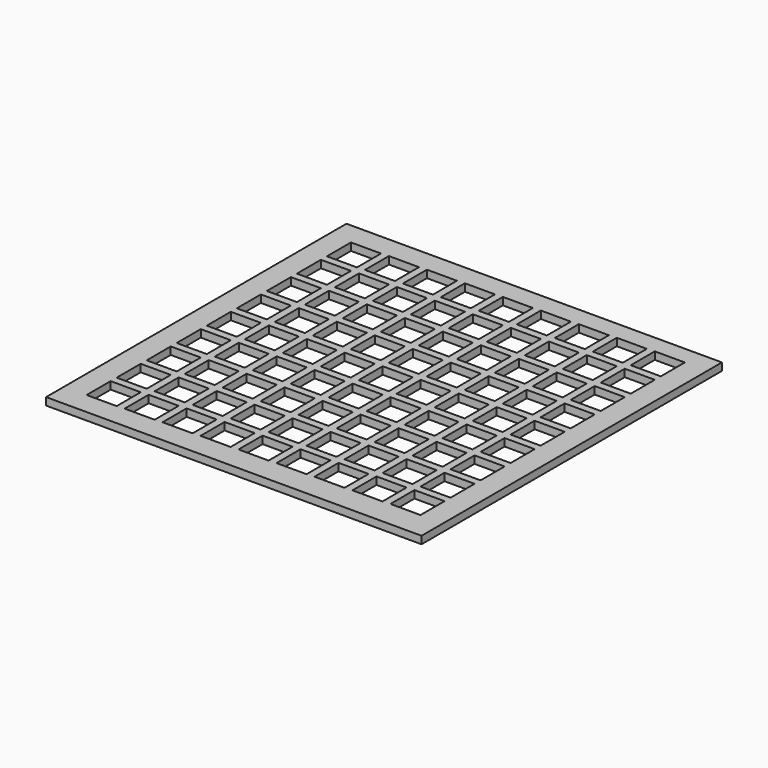
from build123d import *

# Parameters (mm, degrees)
F0_W     = 100
F0_H     = 100
F1_DEPTH = 2
F2_W     = 8
F2_H     = 8
F3_DEPTH = 2


with BuildPart() as f1:
    # F0 (on Top) → F1 (new body)
    with BuildSketch(Plane.XY):
        Rectangle(F0_W, F0_H)
    extrude(amount=F1_DEPTH)

    # F2 (on Top) → F3 (cut)
    with BuildSketch(Plane.XY):
        with Locations((-40, 40)):
            Rectangle(F2_W, F2_H)
        with Locations((-40, 30)):
            Rectangle(F2_W, F2_H)
        with Locations((-40, 20)):
            Rectangle(F2_W, F2_H)
        with Locations((-40, 10)):
            Rectangle(F2_W, F2_H)
        with Locations((-40, 0)):
            Rectangle(F2_W, F2_H)
        with Locations((-40, -10)):
            Rectangle(F2_W, F2_H)
        with Locations((-40, -20)):
            Rectangle(F2_W, F2_H)
        with Locations((-40, -30)):
            Rectangle(F2_W, F2_H)
        with Locations((-40, -40)):
            Rectangle(F2_W, F2_H)
        with Locations((-30.00105, 40.144912)):
            Rectangle(F2_W, F2_H)
        with Locations((-30.00105, 30.144912)):
            Rectangle(F2_W, F2_H)
        with Locations((-30.00105, 20.144912)):
            Rectangle(F2_W, F2_H)
        with Locations((-30.00105, 10.144912)):
            Rectangle(F2_W, F2_H)
        with Locations((-30.00105, 0.144912)):
            Rectangle(F2_W, F2_H)
        with Locations((-30.00105, -9.855088)):
            Rectangle(F2_W, F2_H)
        with Locations((-30.00105, -19.855088)):
            Rectangle(F2_W, F2_H)
        with Locations((-30.00105, -29.855088)):
            Rectangle(F2_W, F2_H)
        with Locations((-30.00105, -39.855088)):
            Rectangle(F2_W, F2_H)
        with Locations((-20.0021, 40.289825)):
            Rectangle(F2_W, F2_H)
        with Locations((-20.0021, 30.289825)):
            Rectangle(F2_W, F2_H)
        with Locations((-20.0021, 20.289825)):
            Rectangle(F2_W, F2_H)
        with Locations((-20.0021, 10.289825)):
            Rectangle(F2_W, F2_H)
        with Locations((-20.0021, 0.289825)):
            Rectangle(F2_W, F2_H)
        with Locations((-20.0021, -9.710175)):
            Rectangle(F2_W, F2_H)
        with Locations((-20.0021, -19.710175)):
            Rectangle(F2_W, F2_H)
        with Locations((-20.0021, -29.710175)):
            Rectangle(F2_W, F2_H)
        with Locations((-20.0021, -39.710175)):
            Rectangle(F2_W, F2_H)
        with Locations((-10.00315, 40.434737)):
            Rectangle(F2_W, F2_H)
        with Locations((-10.00315, 30.434737)):
            Rectangle(F2_W, F2_H)
        with Locations((-10.00315, 20.434737)):
            Rectangle(F2_W, F2_H)
        with Locations((-10.00315, 10.434737)):
            Rectangle(F2_W, F2_H)
        with Locations((-10.00315, 0.434737)):
            Rectangle(F2_W, F2_H)
        with Locations((-10.00315, -9.565263)):
            Rectangle(F2_W, F2_H)
        with Locations((-10.00315, -19.565263)):
            Rectangle(F2_W, F2_H)
        with Locations((-10.00315, -29.565263)):
            Rectangle(F2_W, F2_H)
        with Locations((-10.00315, -39.565263)):
            Rectangle(F2_W, F2_H)
        with Locations((-0.0042, 40.579649)):
            Rectangle(F2_W, F2_H)
        with Locations((-0.0042, 30.579649)):
            Rectangle(F2_W, F2_H)
        with Locations((-0.0042, 20.579649)):
            Rectangle(F2_W, F2_H)
        with Locations((-0.0042, 10.579649)):
            Rectangle(F2_W, F2_H)
        with Locations((-0.0042, 0.579649)):
            Rectangle(F2_W, F2_H)
        with Locations((-0.0042, -9.420351)):
            Rectangle(F2_W, F2_H)
        with Locations((-0.0042, -19.420351)):
            Rectangle(F2_W, F2_H)
        with Locations((-0.0042, -29.420351)):
            Rectangle(F2_W, F2_H)
        with Locations((-0.0042, -39.420351)):
            Rectangle(F2_W, F2_H)
        with Locations((9.99475, 40.724562)):
            Rectangle(F2_W, F2_H)
        with Locations((9.99475, 30.724562)):
            Rectangle(F2_W, F2_H)
        with Locations((9.99475, 20.724562)):
            Rectangle(F2_W, F2_H)
        with Locations((9.99475, 10.724562)):
            Rectangle(F2_W, F2_H)
        with Locations((9.99475, 0.724562)):
            Rectangle(F2_W, F2_H)
        with Locations((9.99475, -9.275438)):
            Rectangle(F2_W, F2_H)
        with Locations((9.99475, -19.275438)):
            Rectangle(F2_W, F2_H)
        with Locations((9.99475, -29.275438)):
            Rectangle(F2_W, F2_H)
        with Locations((9.99475, -39.275438)):
            Rectangle(F2_W, F2_H)
        with Locations((19.9937, 40.869474)):
            Rectangle(F2_W, F2_H)
        with Locations((19.9937, 30.869474)):
            Rectangle(F2_W, F2_H)
        with Locations((19.9937, 20.869474)):
            Rectangle(F2_W, F2_H)
        with Locations((19.9937, 10.869474)):
            Rectangle(F2_W, F2_H)
        with Locations((19.9937, 0.869474)):
            Rectangle(F2_W, F2_H)
        with Locations((19.9937, -9.130526)):
            Rectangle(F2_W, F2_H)
        with Locations((19.9937, -19.130526)):
            Rectangle(F2_W, F2_H)
        with Locations((19.9937, -29.130526)):
            Rectangle(F2_W, F2_H)
        with Locations((19.9937, -39.130526)):
            Rectangle(F2_W, F2_H)
        with Locations((29.99265, 41.014386)):
            Rectangle(F2_W, F2_H)
        with Locations((29.99265, 31.014386)):
            Rectangle(F2_W, F2_H)
        with Locations((29.99265, 21.014386)):
            Rectangle(F2_W, F2_H)
        with Locations((29.99265, 11.014386)):
            Rectangle(F2_W, F2_H)
        with Locations((29.99265, 1.014386)):
            Rectangle(F2_W, F2_H)
        with Locations((29.99265, -8.985614)):
            Rectangle(F2_W, F2_H)
        with Locations((29.99265, -18.985614)):
            Rectangle(F2_W, F2_H)
        with Locations((29.99265, -28.985614)):
            Rectangle(F2_W, F2_H)
        with Locations((29.99265, -38.985614)):
            Rectangle(F2_W, F2_H)
        with Locations((39.9916, 41.159299)):
            Rectangle(F2_W, F2_H)
        with Locations((39.9916, 31.159299)):
            Rectangle(F2_W, F2_H)
        with Locations((39.9916, 21.159299)):
            Rectangle(F2_W, F2_H)
        with Locations((39.9916, 11.159299)):
            Rectangle(F2_W, F2_H)
        with Locations((39.9916, 1.159299)):
            Rectangle(F2_W, F2_H)
        with Locations((39.9916, -8.840701)):
            Rectangle(F2_W, F2_H)
        with Locations((39.9916, -18.840701)):
            Rectangle(F2_W, F2_H)
        with Locations((39.9916, -28.840701)):
            Rectangle(F2_W, F2_H)
        with Locations((39.9916, -38.840701)):
            Rectangle(F2_W, F2_H)
    extrude(amount=F3_DEPTH, mode=Mode.SUBTRACT)


solid = f1.part
